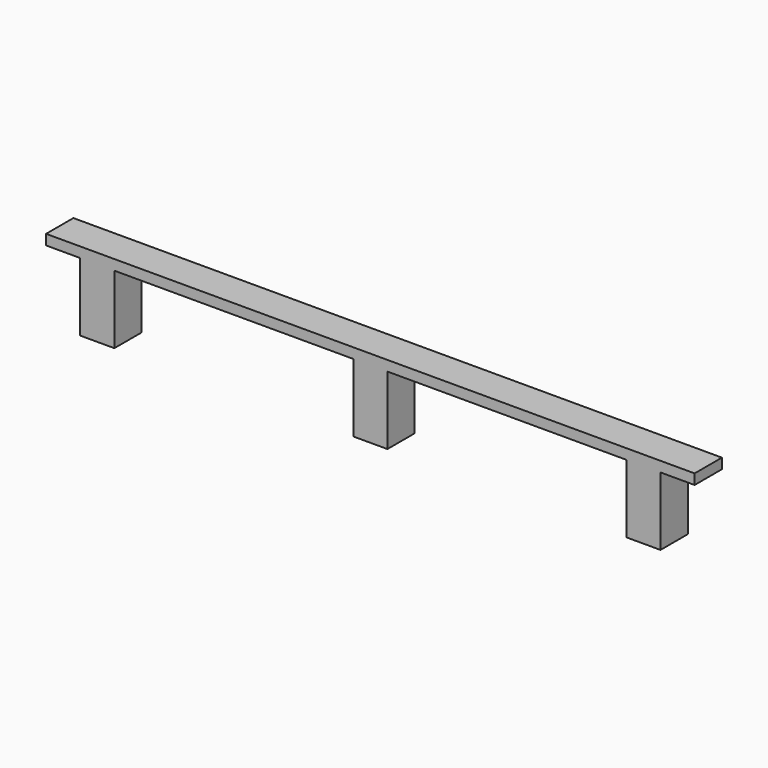
from build123d import *

# Parameters (mm, degrees)
F0_W     = 100
F0_H     = 200
F1_DEPTH = 100


with BuildPart() as f1:
    # F0 (on Front) → F1 (new body)
    with BuildSketch(Plane.XZ):
        Polygon((850, -15), (950, -15), (950, 15), (-950, 15), (-950, -15), (-850, -15), (-750, -15), (-50, -15), (50, -15), (750, -15), align=None)
        with Locations((800, -115)):
            Rectangle(F0_W, F0_H)
        with Locations((0, -115)):
            Rectangle(F0_W, F0_H)
        with Locations((-800, -115)):
            Rectangle(F0_W, F0_H)
    extrude(amount=F1_DEPTH)


solid = f1.part
